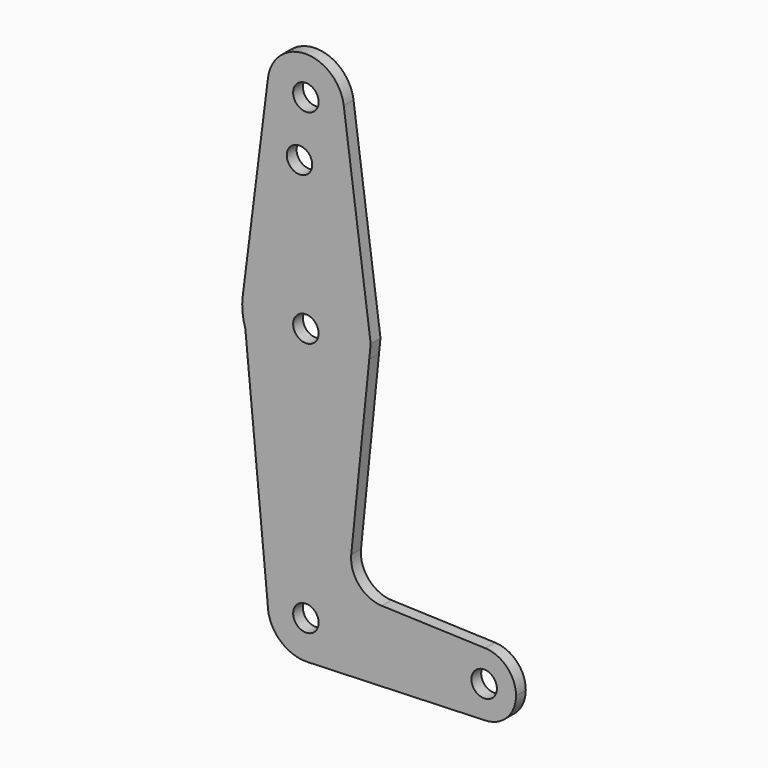
from build123d import *

# Parameters (mm, degrees)
F0_R     = 3.175
F1_DEPTH = 3.048


with BuildPart() as f1:
    # F0 (on Front) → F1 (new body)
    with BuildSketch(Plane.XZ):
        with BuildLine():
            ThreePointArc((0.3401788586, -9.5189234341), (6.8544083854, -6.6138272344), (9.525, 0))
            ThreePointArc((9.525, 0), (0, 9.525), (-9.525, 0))
            ThreePointArc((-9.525, 0), (-6.6138272344, -6.8544083854), (0.3401788586, -9.5189234341))
        make_face()
        Circle(F0_R, mode=Mode.SUBTRACT)
        with BuildLine():
            ThreePointArc((-9.525, 0), (0, 9.525), (9.525, 0))
            ThreePointArc((9.525, 0), (6.8544083854, -6.6138272344), (0.3401788586, -9.5189234341))
            Line((0.3401788586, -9.5189234341), (44.7334821429, -7.9324362036))
            ThreePointArc((44.7334821429, -7.9324362036), (36.5125000183, -0.0005387766), (44.7324052746, 7.9324746146))
            Line((44.7324052746, 7.9324746146), (18.9341027877, 8.850924033))
            ThreePointArc((18.9341027877, 8.850924033), (13.2249738114, 11.5709798305), (11.3072231466, 17.5971800924))
            Line((11.3072231466, 17.5971800924), (15.7942027807, 61.9003801943))
            ThreePointArc((15.7942027807, 61.9003801943), (1.6950695414, 47.7157558227), (-15.0944103202, 58.583252896))
            Line((-15.0944103202, 58.583252896), (-9.525, 0))
        make_face()
        with BuildLine():
            Line((-15.7504882737, 65.484375), (-15.0944103202, 58.583252896))
            ThreePointArc((-15.0944103202, 58.583252896), (1.6950695414, 47.7157558227), (15.7942027807, 61.9003801943))
            ThreePointArc((15.7942027807, 61.9003801943), (15.854787828, 62.6991704749), (15.875, 63.5))
            ThreePointArc((15.875, 63.5), (0.9941387366, 79.3438414904), (-15.7504882737, 65.484375))
        make_face()
        with Locations((0, 63.5)):
            Circle(F0_R, mode=Mode.SUBTRACT)
        with BuildLine():
            ThreePointArc((-15.7504882737, 65.484375), (-15.8037436669, 61.9975649401), (-15.0944103202, 58.583252896))
            Line((-15.0944103202, 58.583252896), (-15.7504882737, 65.484375))
        make_face()
        with BuildLine():
            ThreePointArc((44.7324052746, 7.9324746146), (36.5125000183, -0.0005387766), (44.7334821429, -7.9324362036))
            ThreePointArc((44.7334821429, -7.9324362036), (50.1620069047, -5.5115227815), (52.3875, 0))
            ThreePointArc((52.3875, 0), (50.1616327839, 5.5119104847), (44.7324052746, 7.9324746146))
        make_face()
        with Locations((44.45, 0)):
            Circle(F0_R, mode=Mode.SUBTRACT)
        with BuildLine():
            Line((-9.4502929642, 115.490625), (-15.7504882737, 65.484375))
            ThreePointArc((-15.7504882737, 65.484375), (0.9941387366, 79.3438414904), (15.875, 63.5))
            ThreePointArc((15.875, 63.5), (15.854787828, 62.6991704749), (15.7942027807, 61.9003801943))
            Line((15.7942027807, 61.9003801943), (16.1571858533, 65.484375))
            Line((16.1571858533, 65.484375), (9.4404763038, 115.5661090621))
            ThreePointArc((9.4404763038, 115.5661090621), (9.5038455847, 114.9344636342), (9.525, 114.3))
            ThreePointArc((9.525, 114.3), (-0.596483242, 104.7936951058), (-9.4502929642, 115.490625))
        make_face()
        with Locations((-1.5875, 100.0252)):
            Circle(F0_R, mode=Mode.SUBTRACT)
        with BuildLine():
            ThreePointArc((9.4404763038, 115.5661090621), (-0.0380598557, 123.8249239602), (-9.4502929642, 115.490625))
            ThreePointArc((-9.4502929642, 115.490625), (-0.596483242, 104.7936951058), (9.525, 114.3))
            ThreePointArc((9.525, 114.3), (9.5038455847, 114.9344636342), (9.4404763038, 115.5661090621))
        make_face()
        with Locations((0, 114.3)):
            Circle(F0_R, mode=Mode.SUBTRACT)
    extrude(amount=F1_DEPTH)


solid = f1.part
